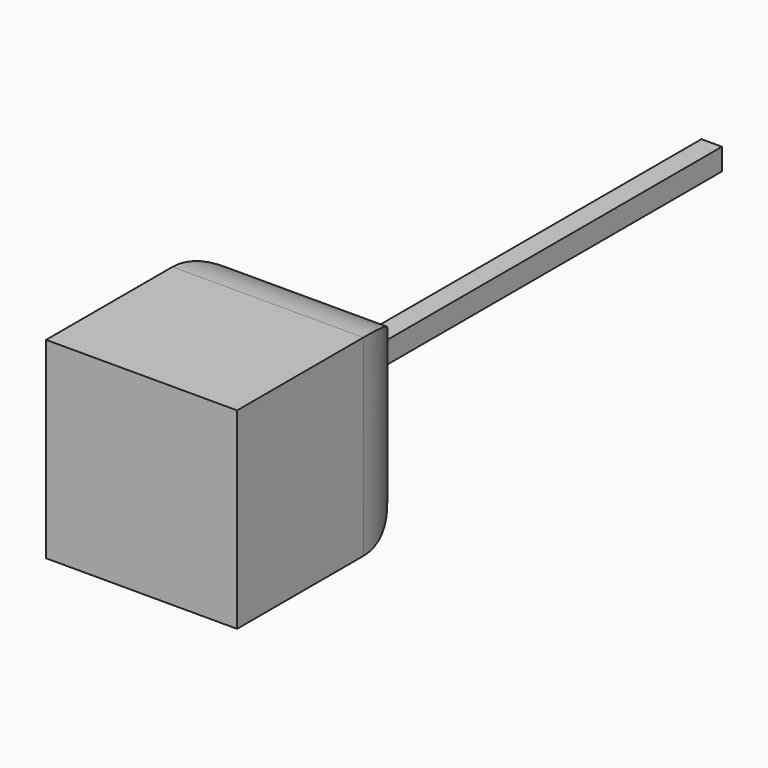
from build123d import *

# Parameters (mm, degrees)
F0_W      = 56.902528
F0_H      = 72.428972
F1_DEPTH  = 28.647777
F2_R      = 25.4
F1_FACE_W = 6.102528
F1_FACE_H = 6.495554
F3_DEPTH  = 139.845217


with BuildPart() as f1:
    # F0 (on Top) → F1 (new body, symmetric)
    with BuildSketch(Plane.XY):
        with Locations((28.451264, -36.214486)):
            Rectangle(F0_W, F0_H)
    extrude(amount=F1_DEPTH, both=True)

    # F2
    f2_edges = [f1.edges().sort_by_distance(p)[0] for p in [
        (56.902528, 0, 0),
        (28.451264, 0, -28.647777),
        (0, 0, 0),
        (28.451264, 0, 28.647777),
    ]]
    fillet(f2_edges, radius=F2_R)

    # F1_face (on face) → F3 (join)
    with BuildSketch(Plane(origin=(28.451264, 0, 0), x_dir=(-1, 0, 0), z_dir=(0, 1, 0))):
        Rectangle(F1_FACE_W, F1_FACE_H)
    extrude(amount=F3_DEPTH)


solid = f1.part
